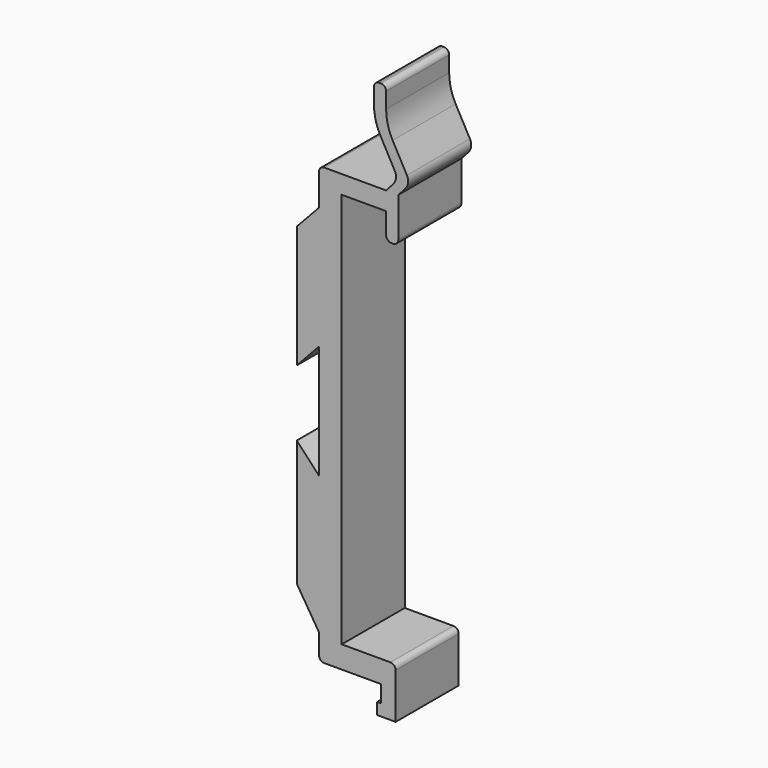
from build123d import *

# Parameters (mm, degrees)
F1_DEPTH = 7.45
F2_W     = 9.95
F2_H     = 59.4720471648
F3_DEPTH = 14.901
F5_DEPTH = 14.9


with BuildPart() as f1:
    # F0 (on Front) → F1 (new body, symmetric)
    with BuildSketch(Plane.XZ):
        with BuildLine():
            Line((-8.5, -30.0970471648), (-4.3, -36.825))
            Line((-4.3, -36.825), (-4.3, -40.625))
            ThreePointArc((-4.3, -40.625), (-4.0071067812, -41.3321067812), (-3.3, -41.625))
            Line((-3.3, -41.625), (7.45, -41.625))
            Line((7.45, -41.625), (7.45, -44.825))
            Line((7.45, -44.825), (6.7, -44.825))
            Line((6.7, -44.825), (6.7, -47.025))
            Line((6.7, -47.025), (10.2, -47.025))
            Line((10.2, -47.025), (10.2, -38.425))
            ThreePointArc((10.2, -38.425), (9.9071067812, -37.7178932188), (9.2, -37.425))
            Line((9.2, -37.425), (0, -37.425))
            Line((0, -37.425), (0, 37.425))
            Line((0, 37.425), (8.4, 37.425))
            Line((8.4, 37.425), (8.4, 33.425))
            ThreePointArc((8.4, 33.425), (8.6928932188, 32.7178932188), (9.4, 32.425))
            Line((9.4, 32.425), (9.7, 32.425))
            ThreePointArc((9.7, 32.425), (10.4071067812, 32.7178932188), (10.7, 33.425))
            Line((10.7, 33.425), (10.7, 40.875))
            Line((10.7, 40.875), (12.0584372697, 42.3947607825))
            ThreePointArc((12.0584372697, 42.3947607825), (12.5542284753, 43.4993517405), (12.3218441058, 44.6875973417))
            Line((12.3218441058, 44.6875973417), (9.6272657122, 49.6124442137))
            ThreePointArc((9.6272657122, 49.6124442137), (8.7116734449, 51.9351925206), (8.4, 54.4123539124))
            Line((8.4, 54.4123539124), (8.4, 57.375))
            ThreePointArc((8.4, 57.375), (8.1071067812, 58.0821067812), (7.4, 58.375))
            Line((7.4, 58.375), (7.1, 58.375))
            ThreePointArc((7.1, 58.375), (6.3928932188, 58.0821067812), (6.1, 57.375))
            Line((6.1, 57.375), (6.1, 54.4123539124))
            ThreePointArc((6.1, 54.4123539124), (6.4116734449, 51.9351925206), (7.3272657122, 49.6124442137))
            Line((7.3272657122, 49.6124442137), (10.0218441058, 44.6875973417))
            ThreePointArc((10.0218441058, 44.6875973417), (10.2542284753, 43.4993517405), (9.7584372697, 42.3947607825))
            Line((9.7584372697, 42.3947607825), (8.4, 40.875))
            Line((8.4, 40.875), (-3.3, 40.875))
            ThreePointArc((-3.3, 40.875), (-4.0071067812, 40.5821067812), (-4.3, 39.875))
            Line((-4.3, 39.875), (-4.3, 33.875))
            Line((-4.3, 33.875), (-8.5, 29.375))
            Line((-8.5, 29.375), (-8.5, 20.075))
            Line((-8.5, 20.075), (-13.95, 20.075))
            Line((-13.95, 20.075), (-13.95, 29.375))
            Line((-13.95, 29.375), (-16.45, 29.375))
            ThreePointArc((-16.45, 29.375), (-17.8642135624, 28.7892135624), (-18.45, 27.375))
            Line((-18.45, 27.375), (-18.45, 13.875))
            Line((-18.45, 13.875), (-8.5, 6.6029528352))
            Line((-8.5, 6.6029528352), (-8.5, -30.0970471648))
        make_face()
    extrude(amount=F1_DEPTH, both=True)

    # F2 (on face) → F3 (cut, through all)
    with BuildSketch(Plane.XZ.offset(7.45)):
        with Locations((-13.475, -0.3610235824)):
            Rectangle(F2_W, F2_H)
    extrude(amount=-F3_DEPTH, mode=Mode.SUBTRACT)

    # F4 (on face) → F5 (cut, through all)
    with BuildSketch(Plane(origin=(0, 7.45, 0), x_dir=(-1, 0, 0), z_dir=(0, 1, 0))):
        Polygon((10, -4.6428571429), (10, 4.6428571429), (4.3, 10.75), (4.3, 0), (4.3, -10.75), align=None)
    extrude(amount=-F5_DEPTH, mode=Mode.SUBTRACT)


solid = f1.part
